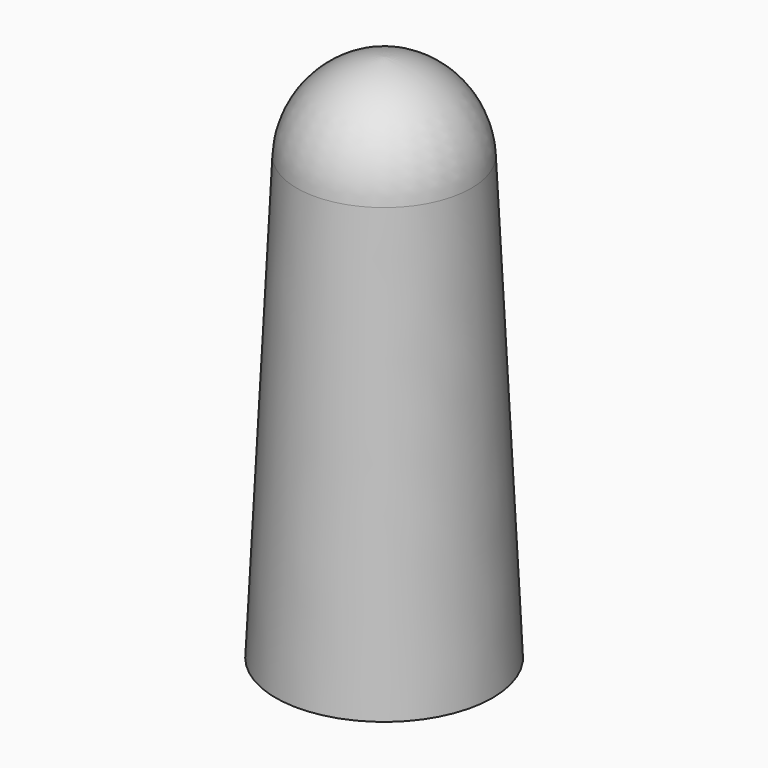
from build123d import *


with BuildPart() as f1:
    # F0 (on Front) → F1 (revolve)
    with BuildSketch(Plane.XZ):
        with BuildLine():
            ThreePointArc((-30.678996, 47.101495), (-31.207962, 48.296666), (-32.403134, 48.825632))
            Line((-32.403134, 48.825632), (-32.403134, 38.375632))
            Line((-32.403134, 38.375632), (-30.260312, 38.375632))
            Line((-30.260312, 38.375632), (-30.678996, 47.101495))
        make_face()
    revolve(axis=Axis((-32.403134, 0, 43.600632), (0, 0, -1)))


solid = f1.part
